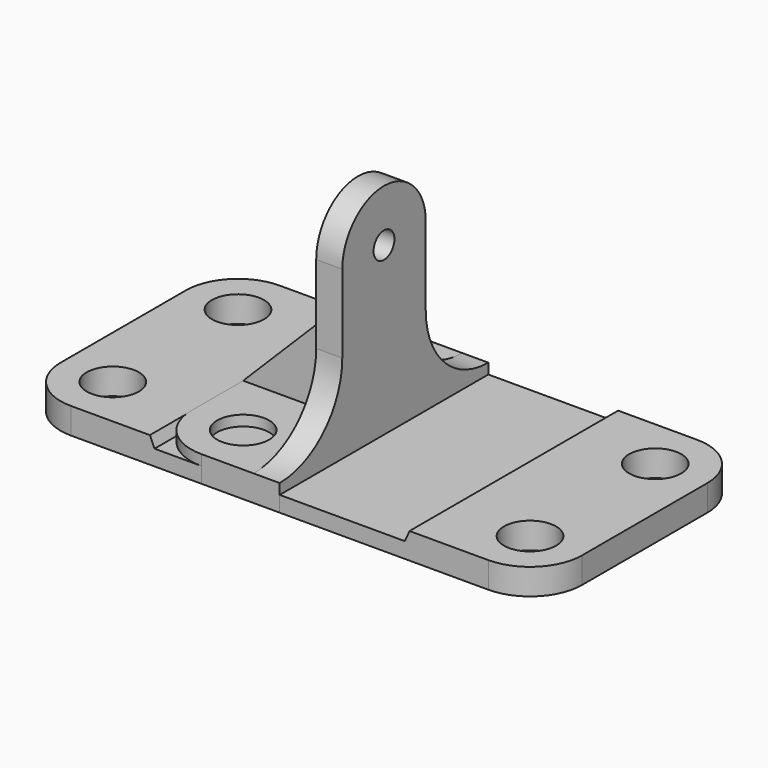
from build123d import *

# Parameters (mm, degrees)
SKETCH_R          = 5
PAD_DEPTH         = 5
POCKET_DEPTH      = 25.001
POCKET_DEPTH_BACK = 25.001
SKETCH002_R       = 5
PAD001_DEPTH      = 5
SKETCH003_R       = 2.5
PAD002_DEPTH      = 5
PAD003_DEPTH      = 2.5


with BuildPart() as base:
    # Sketch → Pad (new body)
    with BuildSketch(Plane.XY):
        with BuildLine():
            Line((-50, 15), (-50, -15))
            ThreePointArc((-50, -15), (-47.071068, -22.071068), (-40, -25))
            Line((-40, -25), (0, -25))
            Line((0, -25), (0, 25))
            Line((0, 25), (-40, 25))
            ThreePointArc((-40, 25), (-47.071068, 22.071068), (-50, 15))
        make_face()
        with Locations((-40, 15)):
            Circle(SKETCH_R, mode=Mode.SUBTRACT)
        with Locations((-40, -15)):
            Circle(SKETCH_R, mode=Mode.SUBTRACT)
    extrude(amount=PAD_DEPTH)

    # Sketch001 → Pocket (cut, two sides)
    with BuildSketch(Plane.XZ) as pocket_sk:
        Polygon((0, 3), (-24, 3), (-24.890457, 5), (0, 5), align=None)
    extrude(amount=-POCKET_DEPTH, mode=Mode.SUBTRACT)
    extrude(pocket_sk.sketch, amount=POCKET_DEPTH_BACK, mode=Mode.SUBTRACT)

    # Mirrored: Base across YZ


with BuildPart() as base_1:
    add(base.part)
    add(base.part.mirror(Plane.YZ))


with BuildPart() as bracket:
    # Sketch002 → Pad001 (new body)
    with BuildSketch(Plane.XY):
        with BuildLine():
            Line((0, 25), (-15, 25))
            ThreePointArc((-15, 25), (-22.071068, 22.071068), (-25, 15))
            Line((-25, 15), (-25, -15))
            ThreePointArc((-25, -15), (-22.071068, -22.071068), (-15, -25))
            Line((-15, -25), (0, -25))
            Line((0, -25), (0, 25))
        make_face()
        with Locations((-15, 15)):
            Circle(SKETCH002_R, mode=Mode.SUBTRACT)
        with Locations((-15, -15)):
            Circle(SKETCH002_R, mode=Mode.SUBTRACT)
    extrude(amount=PAD001_DEPTH)

    # Sketch003 → Pad002 (join)
    with BuildSketch(Plane.YZ):
        with BuildLine():
            ThreePointArc((-25, 5), (-14.393398, 9.393398), (-10, 20))
            Line((-10, 20), (-10, 35))
            ThreePointArc((10, 35), (0, 45), (-10, 35))
            Line((10, 20), (10, 35))
            ThreePointArc((10, 20), (14.393398, 9.393398), (25, 5))
            Line((-25, 5), (25, 5))
        make_face()
        with Locations((0, 35)):
            Circle(SKETCH003_R, mode=Mode.SUBTRACT)
    extrude(amount=-PAD002_DEPTH)

    # Sketch004 → Pad003 (join, symmetric)
    with BuildSketch(Plane.XZ):
        Polygon((-25, 5), (-5, 5), (-5, 25), align=None)
    extrude(amount=PAD003_DEPTH, both=True)


solid = Compound([base_1.part, bracket.part])
